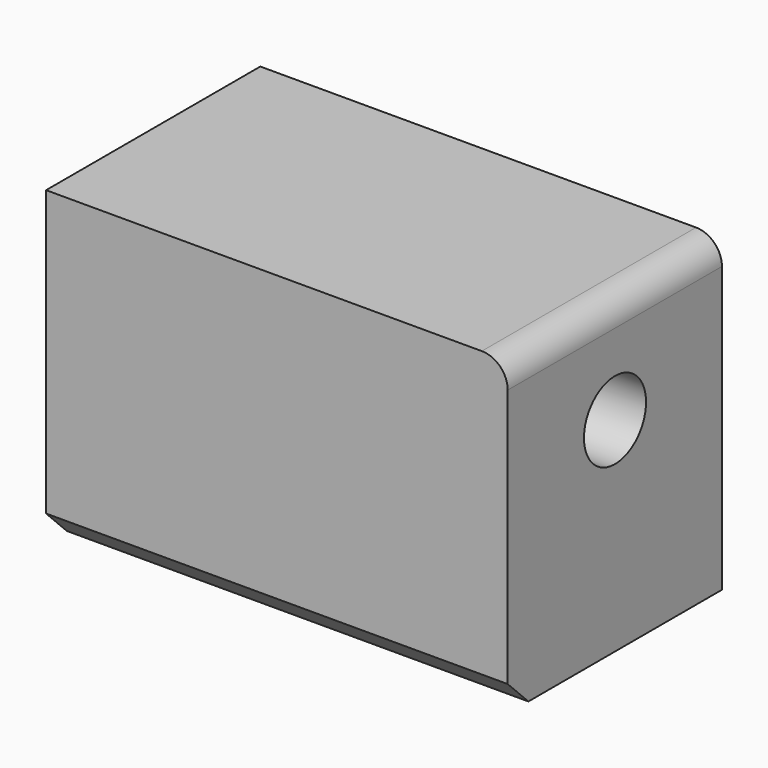
from build123d import *

# Parameters (mm, degrees)
F0_W           = 89.191195
F0_H           = 51.733698
F1_DEPTH       = 60
F2_R           = 5
F3_SIZE        = 5
F5_D           = 10
F5_CBORE_D     = 15
F5_CBORE_DEPTH = 15


with BuildPart() as f1:
    # F0 (on Top) → F1 (new body)
    with BuildSketch(Plane.XY):
        with Locations((44.595597, 25.866849)):
            Rectangle(F0_W, F0_H)
    extrude(amount=F1_DEPTH)

    # F2
    f2_edges = [f1.edges().sort_by_distance(p)[0] for p in [
        (89.191195, 25.866849, 60),
    ]]
    fillet(f2_edges, radius=F2_R)

    # F3
    f3_edges = [f1.edges().sort_by_distance(p)[0] for p in [
        (44.595597, 0, 0),
    ]]
    chamfer(f3_edges, length=F3_SIZE)

    # F5 (through all)
    with Locations(Plane.YZ.offset(89.191195)):
        with Locations((25.911886, 39.375003)):
            CounterBoreHole(F5_D / 2, F5_CBORE_D / 2, F5_CBORE_DEPTH)


solid = f1.part
